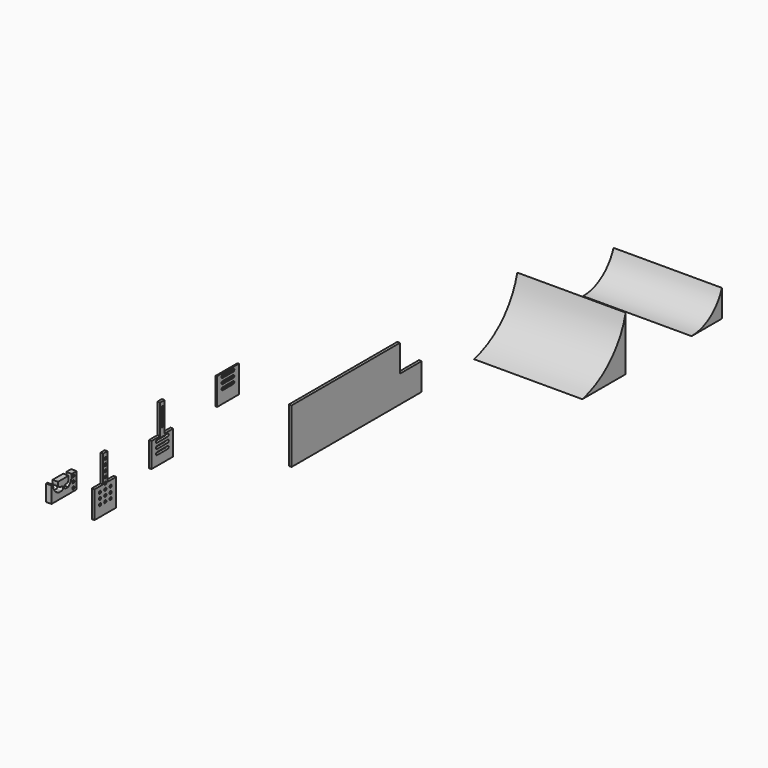
from build123d import *

# Parameters (mm, degrees)
F0_R     = 2.5
F1_DEPTH = 10
F2_DEPTH = 5
F3_DEPTH = 5
F4_DEPTH = 2.5
F5_DEPTH = 5
F6_DEPTH = 200
F7_DEPTH = 200


with BuildPart() as f1:
    # F0 (on Right) → F1 (new body)
    with BuildSketch(Plane.YZ):
        with BuildLine():
            Line((-40.793363, 71.360442), (-45.793363, 71.360442))
            Line((-45.793363, 71.360442), (-52.037939, 71.360442))
            ThreePointArc((-52.037939, 71.360442), (-53.949985, 61.291689), (-60.180999, 53.154727))
            Line((-60.180999, 53.154727), (-65.783724, 53.140325))
            ThreePointArc((-65.783724, 53.140325), (-69.54336, 56.885493), (-65.793363, 60.640313))
            Line((-65.793363, 60.640313), (-61.274841, 60.640313))
            ThreePointArc((-61.274841, 60.640313), (-59.265054, 65.813458), (-59.087154, 71.360442))
            Line((-59.087154, 71.360442), (-83.652052, 71.360442))
            ThreePointArc((-83.652052, 71.360442), (-83.327857, 65.14605), (-79.035759, 60.640313))
            Line((-79.035759, 60.640313), (-75.793363, 60.640313))
            ThreePointArc((-75.793363, 60.640313), (-72.043367, 56.885493), (-75.803003, 53.140325))
            Line((-75.803003, 53.140325), (-82.659588, 53.140325))
            ThreePointArc((-82.659588, 53.140325), (-91.598433, 60.403188), (-95.14863, 71.35984))
            Line((-95.14863, 71.35984), (-98.652052, 71.35984))
            Line((-98.652052, 71.35984), (-98.652052, 41.35984))
            Line((-98.652052, 41.35984), (-93.652052, 41.35984))
            Line((-93.652052, 41.35984), (-80.745518, 41.35984))
            Line((-80.745518, 41.35984), (-45.793363, 41.35984))
            Line((-45.793363, 41.35984), (-40.793363, 41.35984))
            Line((-40.793363, 41.35984), (-40.793363, 71.360442))
        make_face()
        with Locations((-48.293363, 47.249215)):
            Circle(F0_R, mode=Mode.SUBTRACT)
        with Locations((-48.293363, 57.249215)):
            Circle(F0_R, mode=Mode.SUBTRACT)
        with Locations((-48.293363, 66.358629)):
            Circle(F0_R, mode=Mode.SUBTRACT)
    extrude(amount=F1_DEPTH)


with BuildPart() as f2:
    # F0 (on Right) → F2 (new body)
    with BuildSketch(Plane.YZ):
        Polygon((36.682787, 70.653152), (26.682787, 70.653152), (26.682787, 20.653152), (6.682787, 20.653152), (6.682787, -29.346848), (26.682787, -29.346848), (36.682787, -29.346848), (56.682787, -29.346848), (56.682787, 10.653152), (56.682787, 20.653152), (36.682787, 20.653152), align=None)
        with Locations((19.446686, -9.346848)):
            Circle(F0_R, mode=Mode.SUBTRACT)
        with Locations((31.682787, -9.346848)):
            Circle(F0_R, mode=Mode.SUBTRACT)
        with Locations((43.918889, -9.346848)):
            Circle(F0_R, mode=Mode.SUBTRACT)
        with Locations((19.446686, 0.653152)):
            Circle(F0_R, mode=Mode.SUBTRACT)
        with Locations((31.682787, 0.653152)):
            Circle(F0_R, mode=Mode.SUBTRACT)
        with Locations((43.918889, 0.653152)):
            Circle(F0_R, mode=Mode.SUBTRACT)
        with Locations((19.446686, 10.653152)):
            Circle(F0_R, mode=Mode.SUBTRACT)
        with Locations((31.682787, 10.653152)):
            Circle(F0_R, mode=Mode.SUBTRACT)
        with Locations((43.918889, 10.653152)):
            Circle(F0_R, mode=Mode.SUBTRACT)
        with Locations((31.682787, 20.653152)):
            Circle(F0_R, mode=Mode.SUBTRACT)
        with Locations((31.682787, 30.653152)):
            Circle(F0_R, mode=Mode.SUBTRACT)
        with Locations((31.682787, 40.653152)):
            Circle(F0_R, mode=Mode.SUBTRACT)
        with Locations((31.682787, 50.653152)):
            Circle(F0_R, mode=Mode.SUBTRACT)
        with Locations((31.682787, 60.653152)):
            Circle(F0_R, mode=Mode.SUBTRACT)
    extrude(amount=F2_DEPTH)


with BuildPart() as f3:
    # F0 (on Right) → F3 (new body)
    with BuildSketch(Plane.YZ):
        Polygon((168.27247, 100.123195), (158.27247, 100.123195), (158.27247, 45.626515), (138.27247, 45.626515), (138.27247, 0.123195), (158.27247, 0.123195), (168.27247, 0.123195), (188.27247, 0.123195), (188.27247, 45.626515), (168.27247, 45.626515), align=None)
        with BuildLine():
            ThreePointArc((175.546381, 22.623195), (178.046381, 20.123195), (175.546381, 17.623195))
            Line((175.546381, 17.623195), (150.998558, 17.623195))
            ThreePointArc((150.998558, 17.623195), (148.498558, 20.123195), (150.998558, 22.623195))
            Line((150.998558, 22.623195), (175.546381, 22.623195))
        make_face(mode=Mode.SUBTRACT)
        with BuildLine():
            ThreePointArc((175.546381, 32.623195), (178.046381, 30.123195), (175.546381, 27.623195))
            Line((175.546381, 27.623195), (150.998558, 27.623195))
            ThreePointArc((150.998558, 27.623195), (148.498558, 30.123195), (150.998558, 32.623195))
            Line((150.998558, 32.623195), (175.546381, 32.623195))
        make_face(mode=Mode.SUBTRACT)
        with BuildLine():
            ThreePointArc((163.124906, 42.618836), (163.271615, 42.623195), (163.418327, 42.618936))
            Line((163.418327, 42.618936), (175.545527, 42.623083))
            ThreePointArc((175.545527, 42.623083), (178.030188, 39.838999), (174.981061, 37.687839))
            Line((174.981061, 37.687839), (151.563878, 37.687839))
            ThreePointArc((151.563878, 37.687839), (148.528608, 39.736628), (150.79302, 42.61462))
            ThreePointArc((150.79302, 42.61462), (150.997703, 42.623083), (151.202392, 42.61476))
            Line((151.202392, 42.61476), (163.124906, 42.618836))
        make_face(mode=Mode.SUBTRACT)
        with BuildLine():
            ThreePointArc((160.77247, 90.123195), (163.27247, 92.623195), (165.77247, 90.123195))
            Line((165.77247, 90.123195), (165.77247, 60.123195))
            ThreePointArc((165.77247, 60.123195), (163.27247, 57.623195), (160.77247, 60.123195))
            Line((160.77247, 60.123195), (160.77247, 90.123195))
        make_face(mode=Mode.SUBTRACT)
    extrude(amount=F3_DEPTH)


with BuildPart() as f4:
    # F0 (on Right) → F4 (new body)
    with BuildSketch(Plane.YZ):
        Polygon((292.585857, 37.414812), (312.585857, 37.414812), (322.585857, 37.414812), (342.585857, 37.414812), (342.585857, 77.414812), (342.585857, 87.414812), (322.585857, 87.414812), (312.585857, 87.414812), (292.585857, 87.414812), align=None)
        with BuildLine():
            ThreePointArc((329.859769, 64.411491), (332.359769, 61.911491), (329.859769, 59.411491))
            Line((329.859769, 59.411491), (305.311945, 59.411491))
            ThreePointArc((305.311945, 59.411491), (302.811945, 61.911491), (305.311945, 64.411491))
            Line((305.311945, 64.411491), (329.859769, 64.411491))
        make_face(mode=Mode.SUBTRACT)
        with BuildLine():
            ThreePointArc((329.859769, 74.411491), (332.359769, 71.911491), (329.859769, 69.411491))
            Line((329.859769, 69.411491), (305.311945, 69.411491))
            ThreePointArc((305.311945, 69.411491), (302.811945, 71.911491), (305.311945, 74.411491))
            Line((305.311945, 74.411491), (329.859769, 74.411491))
        make_face(mode=Mode.SUBTRACT)
        with BuildLine():
            ThreePointArc((317.438293, 84.407133), (317.585002, 84.411491), (317.731714, 84.407233))
            Line((317.731714, 84.407233), (329.858914, 84.411379))
            ThreePointArc((329.858914, 84.411379), (332.343575, 81.627296), (329.294448, 79.476136))
            Line((329.294448, 79.476136), (305.877266, 79.476136))
            ThreePointArc((305.877266, 79.476136), (302.841995, 81.524924), (305.106407, 84.402916))
            ThreePointArc((305.106407, 84.402916), (305.31109, 84.411379), (305.515779, 84.403056))
            Line((305.515779, 84.403056), (317.438293, 84.407133))
        make_face(mode=Mode.SUBTRACT)
    extrude(amount=F4_DEPTH)


with BuildPart() as f5:
    # F0 (on Right) → F5 (new body)
    with BuildSketch(Plane.YZ):
        Polygon((711.327732, -27.761308), (461.327732, -27.761308), (461.327732, -127.761308), (761.327732, -127.761308), (761.327732, -77.761308), (711.327732, -77.761308), align=None)
    extrude(amount=F5_DEPTH)


with BuildPart() as f6:
    # F0 (on Right) → F6 (new body)
    with BuildSketch(Plane.YZ):
        with BuildLine():
            Line((988.101518, -127.761308), (988.101518, -27.761308))
            ThreePointArc((988.101518, -27.761308), (952.242961, -91.902751), (888.101518, -127.761308))
            Line((888.101518, -127.761308), (988.101518, -127.761308))
        make_face()
    extrude(amount=F6_DEPTH)


with BuildPart() as f7:
    # F0 (on Right) → F7 (new body)
    with BuildSketch(Plane.YZ):
        with BuildLine():
            ThreePointArc((1210.044332, -77.761308), (1183.055958, -113.977585), (1140.044332, -127.761308))
            Line((1140.044332, -127.761308), (1210.044332, -127.761308))
            Line((1210.044332, -127.761308), (1210.044332, -77.761308))
        make_face()
    extrude(amount=F7_DEPTH)


solid = Compound([f1.part, f2.part, f3.part, f4.part, f5.part, f6.part, f7.part])
